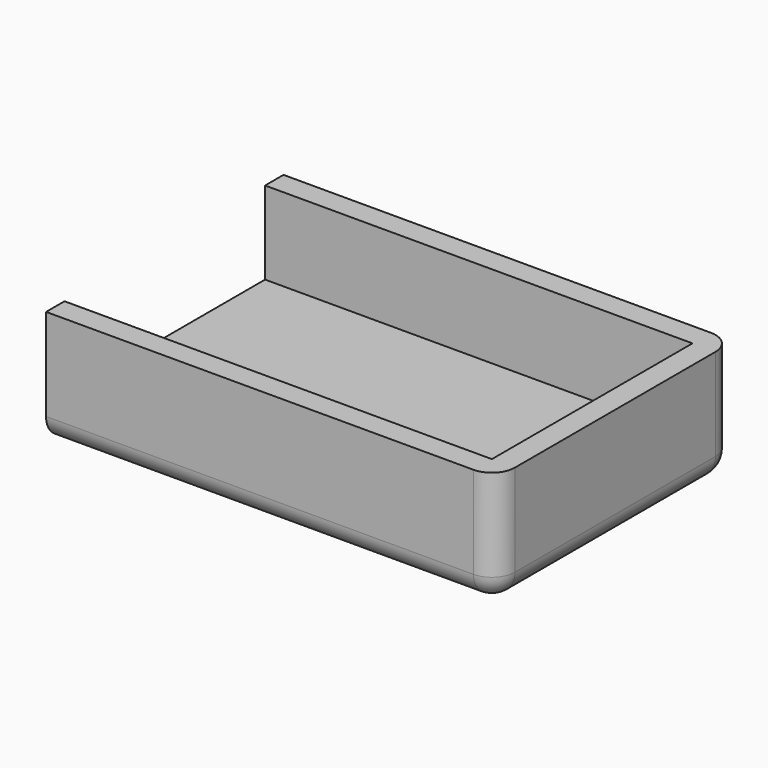
from build123d import *

# Parameters (mm, degrees)
SKETCH_W          = 92.858264
SKETCH_H          = 54.475084
PAD_DEPTH         = 20
THICKNESS_T       = 5
THICKNESS_FACE4_W = 54.475084
THICKNESS_FACE4_H = 92.858264
PAD001_DEPTH      = 2


with BuildPart() as part:
    # Sketch → Pad (new body)
    with BuildSketch(Plane.XY):
        with Locations((8.511961, -0.004594)):
            Rectangle(SKETCH_W, SKETCH_H)
    extrude(amount=PAD_DEPTH)

    # Thickness
    thickness_openings = [part.faces().sort_by_distance(p)[0] for p in [
        (8.511961, -0.004594, 20),
        (-37.917171, -0.004594, 10),
    ]]
    offset(amount=THICKNESS_T, openings=thickness_openings)

    # Thickness Face4 → Pad001 (add)
    with BuildSketch(Plane(origin=(8.511961, -0.004594, 0), x_dir=(0, 1, 0), z_dir=(0, 0, 1))):
        Rectangle(THICKNESS_FACE4_W, THICKNESS_FACE4_H)
    extrude(amount=PAD001_DEPTH)


solid = part.part
